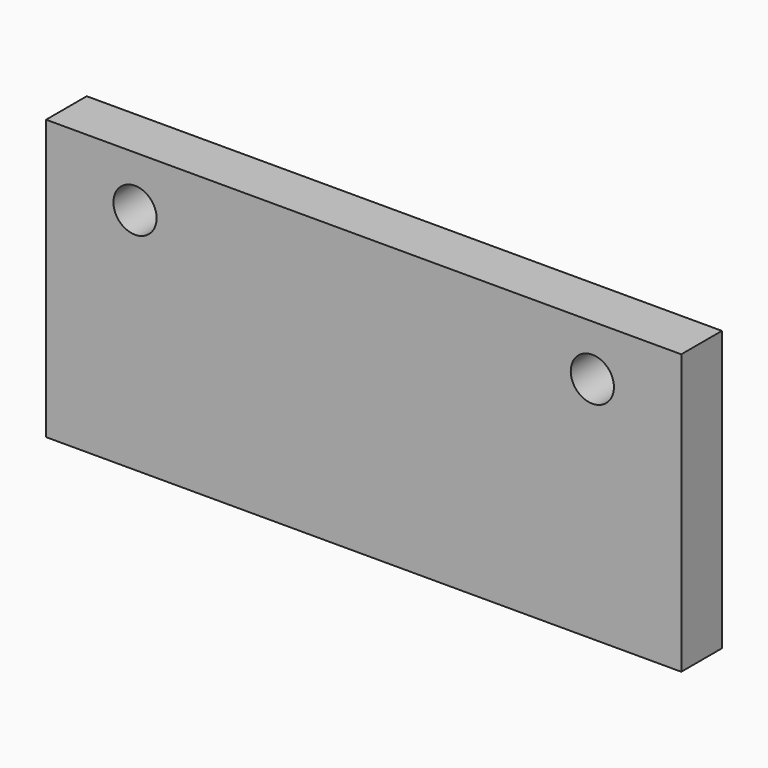
from build123d import *

# Parameters (mm, degrees)
F0_W     = 50
F0_H     = 22
F1_DEPTH = 4
F3_D     = 3.4


with BuildPart() as f1:
    # F0 (on Front) → F1 (new body)
    with BuildSketch(Plane.XZ):
        with Locations((25, 11)):
            Rectangle(F0_W, F0_H)
    extrude(amount=F1_DEPTH)

    # F3 (through all)
    with Locations(Plane.XZ.offset(4)):
        with Locations((7, 18), (43, 18)):
            Hole(F3_D / 2)


solid = f1.part
